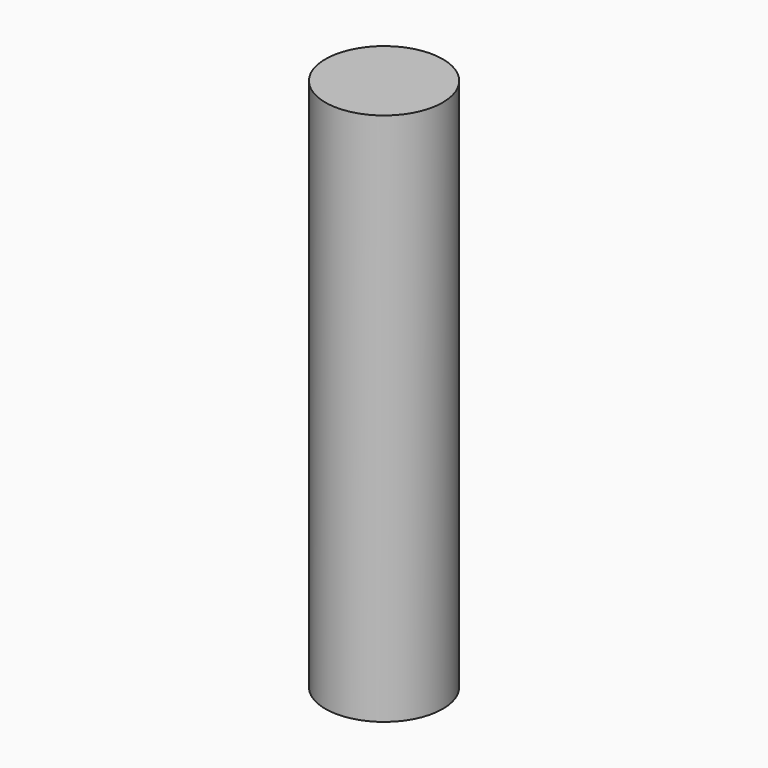
from build123d import *

# Parameters (mm, degrees)
F0_R     = 55
F0_R_2   = 50
F1_DEPTH = 500
F2_DEPTH = 62.5


with BuildPart() as f1:
    # F0 (on Top) → F1 (new body)
    with BuildSketch(Plane.XY):
        Circle(F0_R)
        Circle(F0_R_2, mode=Mode.SUBTRACT)
        Circle(F0_R_2)
    extrude(amount=-F1_DEPTH)

    # F0 (on Top) → F2 (join)
    with BuildSketch(Plane.XY):
        Circle(F0_R)
        Circle(F0_R_2, mode=Mode.SUBTRACT)
    extrude(amount=-F2_DEPTH)


solid = f1.part
